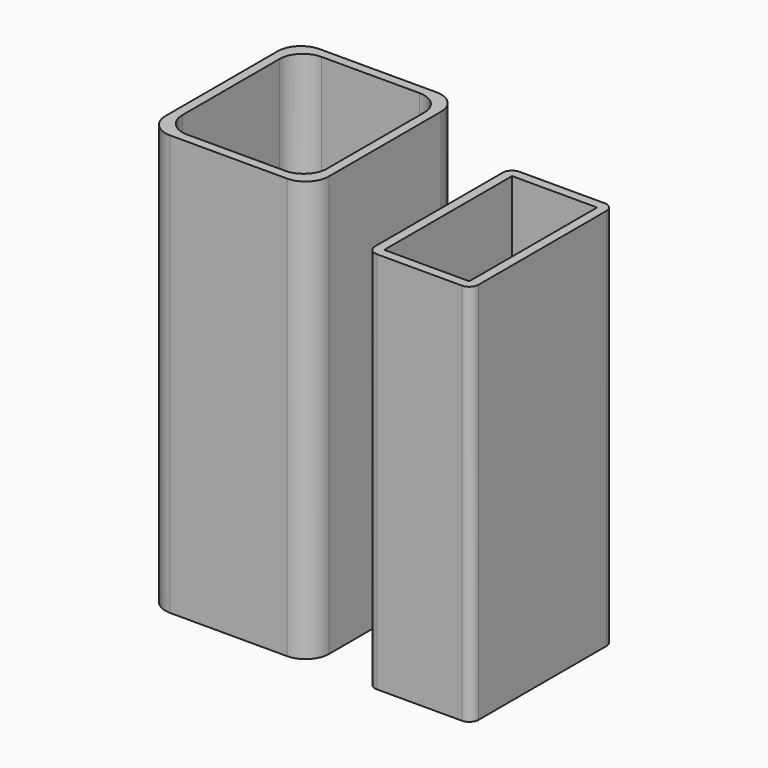
from build123d import *

# Parameters (mm, degrees)
F1_DEPTH = 90
F2_DEPTH = 2
F3_W     = 18.2
F3_H     = 34.2
F4_DEPTH = 82


with BuildPart() as f1:
    # F0 (on Top) → F1 (new body)
    with BuildSketch(Plane.XY):
        with BuildLine():
            ThreePointArc((17.5, 15), (16.035534, 18.535534), (12.5, 20))
            Line((12.5, 20), (-12.5, 20))
            ThreePointArc((-12.5, 20), (-16.035534, 18.535534), (-17.5, 15))
            Line((-17.5, 15), (-17.5, -15))
            ThreePointArc((-17.5, -15), (-16.035534, -18.535534), (-12.5, -20))
            Line((-12.5, -20), (12.5, -20))
            ThreePointArc((12.5, -20), (16.035534, -18.535534), (17.5, -15))
            Line((17.5, -15), (17.5, 15))
        make_face()
        with BuildLine():
            Line((-15.5, -13), (-15.5, 13))
            ThreePointArc((-15.5, 13), (-14.035534, 16.535534), (-10.5, 18))
            Line((-10.5, 18), (10.5, 18))
            ThreePointArc((10.5, 18), (14.035534, 16.535534), (15.5, 13))
            Line((15.5, 13), (15.5, -13))
            ThreePointArc((15.5, -13), (14.035534, -16.535534), (10.5, -18))
            Line((10.5, -18), (-10.5, -18))
            ThreePointArc((-10.5, -18), (-14.035534, -16.535534), (-15.5, -13))
        make_face(mode=Mode.SUBTRACT)
    extrude(amount=F1_DEPTH)

    # F0 (on Top) → F2 (join)
    with BuildSketch(Plane.XY):
        with BuildLine():
            ThreePointArc((-10.5, 18), (-14.035534, 16.535534), (-15.5, 13))
            Line((-15.5, 13), (-15.5, -13))
            ThreePointArc((-15.5, -13), (-14.035534, -16.535534), (-10.5, -18))
            Line((-10.5, -18), (10.5, -18))
            ThreePointArc((10.5, -18), (14.035534, -16.535534), (15.5, -13))
            Line((15.5, -13), (15.5, 13))
            ThreePointArc((15.5, 13), (14.035534, 16.535534), (10.5, 18))
            Line((10.5, 18), (-10.5, 18))
        make_face()
    extrude(amount=F2_DEPTH)


with BuildPart() as f4:
    # F3 (on Top) → F4 (new body)
    with BuildSketch(Plane.XY):
        with BuildLine():
            Line((49.928209, 18.2), (31.728209, 18.2))
            ThreePointArc((31.728209, 18.2), (30.313995, 17.614214), (29.728209, 16.2))
            Line((29.728209, 16.2), (29.728209, -18))
            ThreePointArc((29.728209, -18), (30.313995, -19.414214), (31.728209, -20))
            Line((31.728209, -20), (49.928209, -20))
            ThreePointArc((49.928209, -20), (51.342422, -19.414214), (51.928209, -18))
            Line((51.928209, -18), (51.928209, 16.2))
            ThreePointArc((51.928209, 16.2), (51.342422, 17.614214), (49.928209, 18.2))
        make_face()
        with Locations((40.828209, -0.9)):
            Rectangle(F3_W, F3_H, mode=Mode.SUBTRACT)
    extrude(amount=F4_DEPTH)


solid = Compound([f1.part, f4.part])
